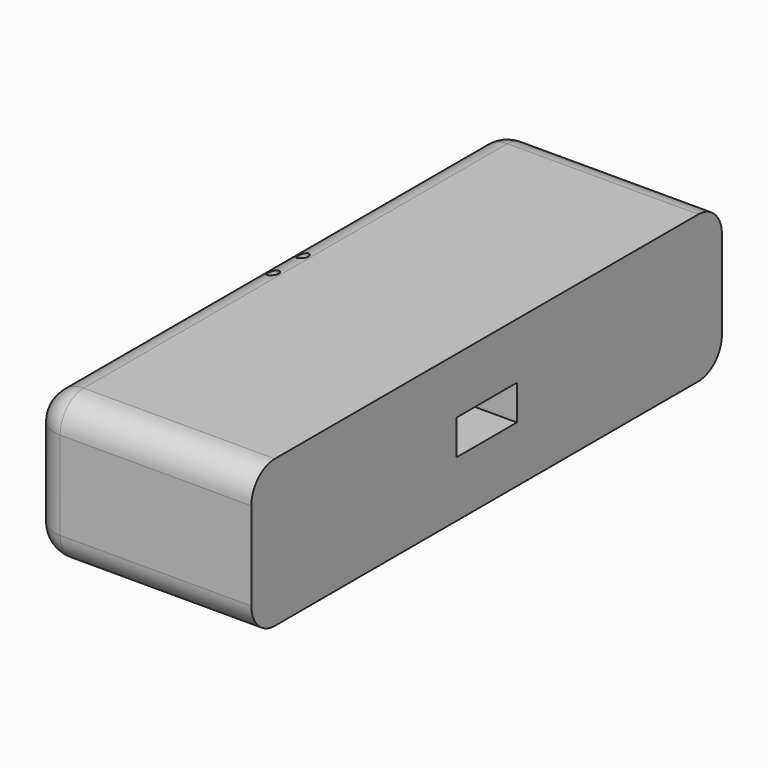
from build123d import *

# Parameters (mm, degrees)
F0_W     = 38.1
F0_H     = 101.6
F1_DEPTH = 12.7
F2_R     = 5.23875
F3_DEPTH = 25.4
F4_R     = 5.08
F5_W     = 13.081
F5_H     = 6.0452
F6_DEPTH = 38.1
F8_DEPTH = 25.401


with BuildPart() as f1:
    # F0 (on Top) → F1 (new body, symmetric)
    with BuildSketch(Plane.XY):
        Rectangle(F0_W, F0_H)
    extrude(amount=F1_DEPTH, both=True)

    # F2 (on face) → F3 (cut)
    with BuildSketch(Plane(origin=(-19.05, 0, 0), x_dir=(0, -1, 0), z_dir=(-1, 0, 0))):
        with Locations((38.1, 0)):
            Circle(F2_R)
        with Locations((-38.1, 0)):
            Circle(F2_R)
    extrude(amount=-F3_DEPTH, mode=Mode.SUBTRACT)

    # F4
    f4_edges = [f1.edges().sort_by_distance(p)[0] for p in [
        (0, 50.8, 12.7),
        (-19.05, 0, 12.7),
        (-19.05, 50.8, 0),
        (-19.05, -50.8, 0),
        (-19.05, 0, -12.7),
        (0, 50.8, -12.7),
        (0, -50.8, -12.7),
        (0, -50.8, 12.7),
    ]]
    fillet(f4_edges, radius=F4_R)

    # F5 (on face) → F6 (cut, through all)
    with BuildSketch(Plane(origin=(-19.05, 0, 0), x_dir=(0, -1, 0), z_dir=(-1, 0, 0))):
        Rectangle(F5_W, F5_H)
    extrude(amount=-F6_DEPTH, mode=Mode.SUBTRACT)

    # F7 (on face) → F8 (cut, through all)
    with BuildSketch(Plane.XY.offset(12.7)):
        with BuildLine():
            ThreePointArc((-14.31925, -3.20675), (-14.588931, -2.555681), (-15.24, -2.286))
            ThreePointArc((-15.24, -2.286), (-15.891069, -3.857819), (-14.31925, -3.20675))
        make_face()
        with BuildLine():
            ThreePointArc((-14.31925, 3.20675), (-15.891069, 3.857819), (-15.24, 2.286))
            ThreePointArc((-15.24, 2.286), (-14.588931, 2.555681), (-14.31925, 3.20675))
        make_face()
    extrude(amount=-F8_DEPTH, mode=Mode.SUBTRACT)


solid = f1.part
